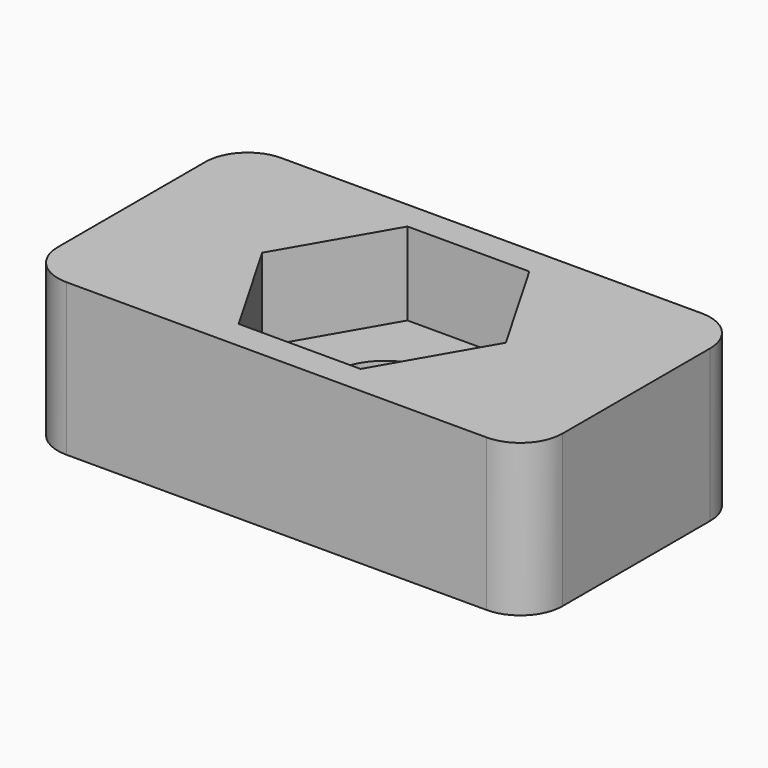
from build123d import *

# Parameters (mm, degrees)
F0_W     = 15.1892
F0_H     = 8.0899
F1_DEPTH = 4.572
F3_DEPTH = 2.4892
F4_R     = 1.5875
F5_DEPTH = 25.4
F6_R     = 1.27


with BuildPart() as f1:
    # F0 (on Top) → F1 (new body)
    with BuildSketch(Plane.XY):
        with Locations((-3.466585, 2.935039)):
            Rectangle(F0_W, F0_H)
    extrude(amount=F1_DEPTH)

    # F2 (on face) → F3 (cut)
    with BuildSketch(Plane.XY.offset(4.572)):
        Polygon((-1.633498, -0.239961), (0.199589, 2.935039), (-1.633498, 6.110039), (-5.299672, 6.110039), (-7.132759, 2.935039), (-5.299672, -0.239961), align=None)
    extrude(amount=-F3_DEPTH, mode=Mode.SUBTRACT)

    # F4 (on face) → F5 (cut)
    with BuildSketch(Plane.XY.offset(2.0828)):
        with Locations((-3.443841, 2.935039)):
            Circle(F4_R)
    extrude(amount=-F5_DEPTH, mode=Mode.SUBTRACT)

    # F6
    f6_edges = [f1.edges().sort_by_distance(p)[0] for p in [
        (4.128015, -1.109911, 2.286),
        (-11.061185, -1.109911, 2.286),
        (-11.061185, 6.979989, 2.286),
        (4.128015, 6.979989, 2.286),
    ]]
    fillet(f6_edges, radius=F6_R)


solid = f1.part
